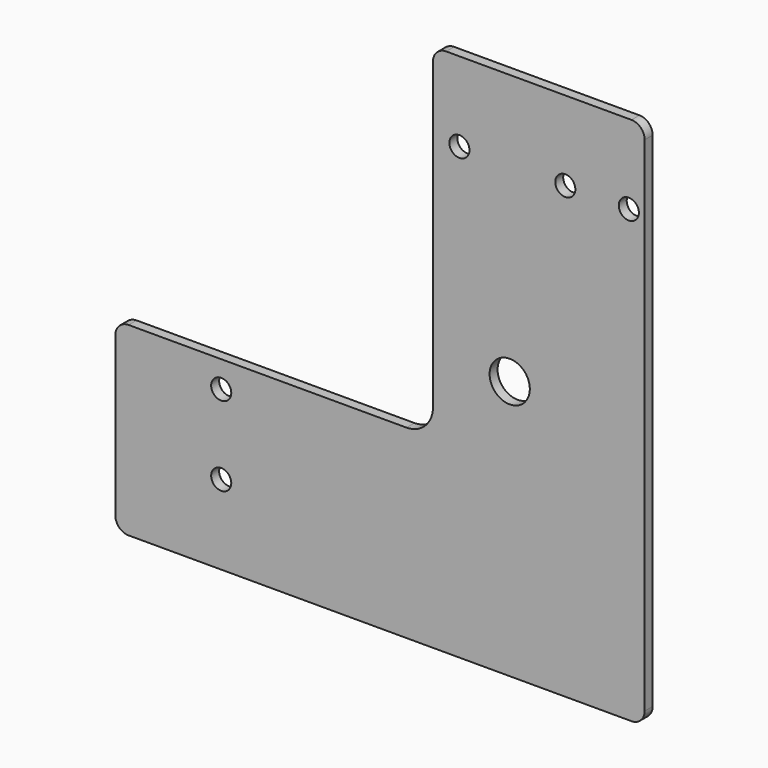
from build123d import *

# Parameters (mm, degrees)
F0_R     = 4.826
F0_R_2   = 9.525
F0_R_3   = 9.652
F1_DEPTH = 4.7752


with BuildPart() as f1:
    # F0 (on Front) → F1 (new body)
    with BuildSketch(Plane.XZ):
        with BuildLine():
            ThreePointArc((-6.35, 0), (-1.859872, 1.859872), (0, 6.35))
            Line((0, 6.35), (0, 247.65))
            ThreePointArc((0, 247.65), (-1.859872, 252.140128), (-6.35, 254))
            Line((-6.35, 254), (-95.25, 254))
            ThreePointArc((-95.25, 254), (-99.740128, 252.140128), (-101.6, 247.65))
            Line((-101.6, 247.65), (-101.6, 176.188146))
            ThreePointArc((-101.6, 176.188146), (-35.670644, 180.900035), (-1.27, 124.46))
            ThreePointArc((-1.27, 124.46), (-46.17483, 63.743695), (-117.379281, 88.9))
            Line((-117.379281, 88.9), (-247.65, 88.9))
            ThreePointArc((-247.65, 88.9), (-252.140128, 87.040128), (-254, 82.55))
            Line((-254, 82.55), (-254, 6.35))
            ThreePointArc((-254, 6.35), (-252.140128, 1.859872), (-247.65, 0))
            Line((-247.65, 0), (-6.35, 0))
        make_face()
        with Locations((-203.2, 38.1)):
            Circle(F0_R, mode=Mode.SUBTRACT)
        with Locations((-203.2, 76.2)):
            Circle(F0_R, mode=Mode.SUBTRACT)
        with Locations((-33.35242, 48.26)):
            Circle(F0_R_2, mode=Mode.SUBTRACT)
        with Locations((-88.9, 215.9)):
            Circle(F0_R, mode=Mode.SUBTRACT)
        with Locations((-38.1, 215.9)):
            Circle(F0_R, mode=Mode.SUBTRACT)
        with Locations((-7.62, 215.9)):
            Circle(F0_R, mode=Mode.SUBTRACT)
        with Locations((-33.35242, 48.26)):
            Circle(F0_R_2)
        with BuildLine():
            ThreePointArc((-1.27, 124.46), (-35.670644, 180.900035), (-101.6, 176.188146))
            Line((-101.6, 176.188146), (-101.6, 101.6))
            ThreePointArc((-101.6, 101.6), (-105.319744, 92.619744), (-114.3, 88.9))
            Line((-114.3, 88.9), (-117.379281, 88.9))
            ThreePointArc((-117.379281, 88.9), (-46.17483, 63.743695), (-1.27, 124.46))
        make_face()
        with Locations((-64.77, 124.46)):
            Circle(F0_R_3, mode=Mode.SUBTRACT)
    extrude(amount=F1_DEPTH)


solid = f1.part
